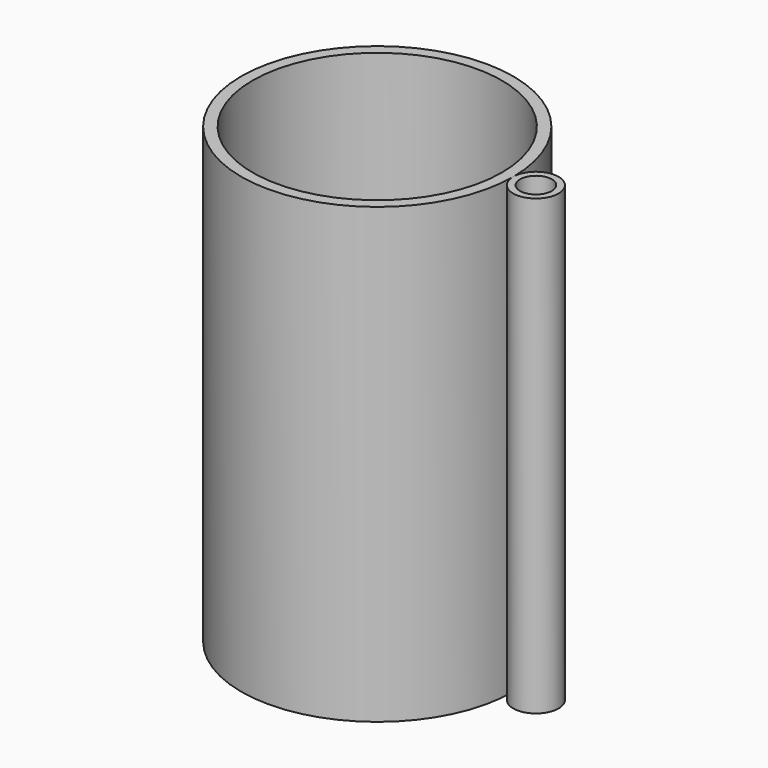
from build123d import *

# Parameters (mm, degrees)
F0_R     = 38.1
F0_R_2   = 34.925
F0_R_3   = 4.445
F1_DEPTH = 127
F2_DEPTH = 5.08
F3_DEPTH = 17.78


with BuildPart() as f1:
    # F0 (on Top) → F1 (new body)
    with BuildSketch(Plane.XY):
        Circle(F0_R)
        Circle(F0_R_2, mode=Mode.SUBTRACT)
        with BuildLine():
            ThreePointArc((50.8, 0), (44.45, 6.35), (38.1, 0))
            ThreePointArc((38.1, 0), (44.45, -6.35), (50.8, 0))
        make_face()
        with Locations((44.45, 0)):
            Circle(F0_R_3, mode=Mode.SUBTRACT)
    extrude(amount=F1_DEPTH)

    # F0 (on Top) → F2 (join)
    with BuildSketch(Plane.XY):
        Circle(F0_R_2)
    extrude(amount=F2_DEPTH)

    # F0 (on Top) → F3 (join)
    with BuildSketch(Plane.XY):
        with Locations((44.45, 0)):
            Circle(F0_R_3)
    extrude(amount=F3_DEPTH)


solid = f1.part
